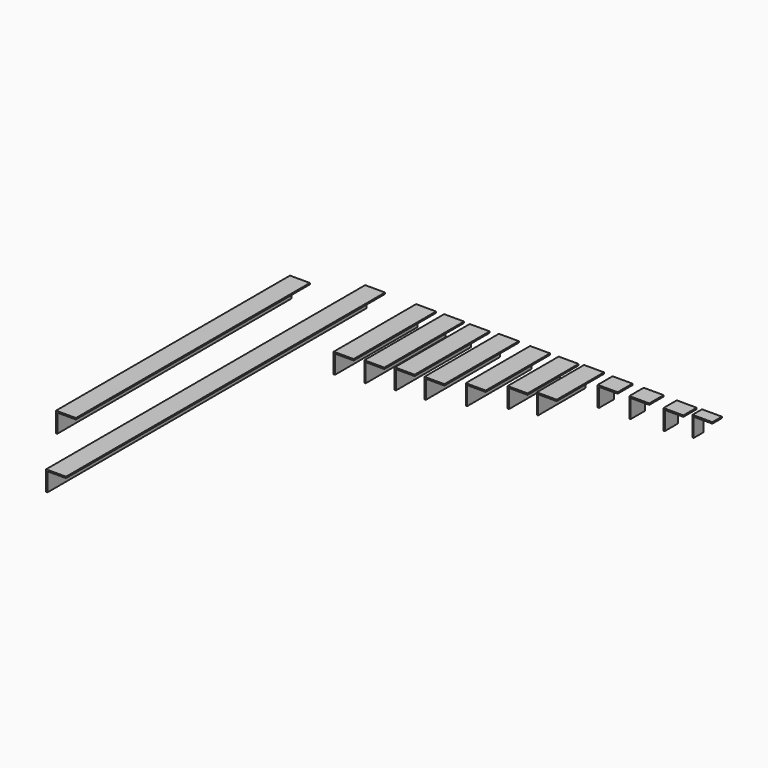
from build123d import *

# Parameters (mm, degrees)
F1_DEPTH  = 155
F2_DEPTH  = 150
F3_DEPTH  = 141
F4_DEPTH  = 140
F5_DEPTH  = 121
F6_DEPTH  = 96
F7_DEPTH  = 89
F8_DEPTH  = 28
F9_DEPTH  = 27
F10_DEPTH = 25
F11_DEPTH = 18
F12_DEPTH = 600
F13_DEPTH = 440


with BuildPart() as f1:
    # F0 (on Front) → F1 (new body)
    with BuildSketch(Plane.XZ):
        Polygon((0, 30), (0, 0), (2, 0), (2, 28), (30, 28), (30, 30), align=None)
    extrude(amount=F1_DEPTH)


with BuildPart() as f2:
    # F0 (on Front) → F2 (new body)
    with BuildSketch(Plane.XZ):
        Polygon((42.134417, 30.374652), (42.134417, 0.374652), (44.134417, 0.374652), (44.134417, 28.374652), (72.134417, 28.374652), (72.134417, 30.374652), align=None)
    extrude(amount=F2_DEPTH)


with BuildPart() as f3:
    # F0 (on Front) → F3 (new body)
    with BuildSketch(Plane.XZ):
        Polygon((80.618622, 29.845484), (80.618622, -0.154516), (82.618622, -0.154516), (82.618622, 27.845484), (110.618622, 27.845484), (110.618622, 29.845484), align=None)
    extrude(amount=F3_DEPTH)


with BuildPart() as f4:
    # F0 (on Front) → F4 (new body)
    with BuildSketch(Plane.XZ):
        Polygon((124.5095, 31.16221), (124.5095, 1.16221), (126.5095, 1.16221), (126.5095, 29.16221), (154.5095, 29.16221), (154.5095, 31.16221), align=None)
    extrude(amount=F4_DEPTH)


with BuildPart() as f5:
    # F0 (on Front) → F5 (new body)
    with BuildSketch(Plane.XZ):
        Polygon((171.47273, 30.284392), (171.47273, 0.284392), (173.47273, 0.284392), (173.47273, 28.284392), (201.47273, 28.284392), (201.47273, 30.284392), align=None)
    extrude(amount=F5_DEPTH)


with BuildPart() as f6:
    # F0 (on Front) → F6 (new body)
    with BuildSketch(Plane.XZ):
        Polygon((214.485781, 30.284392), (214.485781, 0.284392), (216.485781, 0.284392), (216.485781, 28.284392), (244.485781, 28.284392), (244.485781, 30.284392), align=None)
    extrude(amount=F6_DEPTH)


with BuildPart() as f7:
    # F0 (on Front) → F7 (new body)
    with BuildSketch(Plane.XZ):
        Polygon((252.679737, 31.538459), (252.679737, 1.538459), (254.679737, 1.538459), (254.679737, 29.538459), (282.679737, 29.538459), (282.679737, 31.538459), align=None)
    extrude(amount=F7_DEPTH)


with BuildPart() as f8:
    # F0 (on Front) → F8 (new body)
    with BuildSketch(Plane.XZ):
        Polygon((295.54102, 30.553142), (295.54102, 0.553142), (297.54102, 0.553142), (297.54102, 28.553142), (325.54102, 28.553142), (325.54102, 30.553142), align=None)
    extrude(amount=F8_DEPTH)


with BuildPart() as f9:
    # F0 (on Front) → F9 (new body)
    with BuildSketch(Plane.XZ):
        Polygon((342.343571, 30.553142), (342.343571, 0.553142), (344.343571, 0.553142), (344.343571, 28.553142), (372.343571, 28.553142), (372.343571, 30.553142), align=None)
    extrude(amount=F9_DEPTH)


with BuildPart() as f10:
    # F0 (on Front) → F10 (new body)
    with BuildSketch(Plane.XZ):
        Polygon((392.102064, 30.060483), (392.102064, 0.060483), (394.102064, 0.060483), (394.102064, 28.060483), (422.102064, 28.060483), (422.102064, 30.060483), align=None)
    extrude(amount=F10_DEPTH)


with BuildPart() as f11:
    # F0 (on Front) → F11 (new body)
    with BuildSketch(Plane.XZ):
        Polygon((430.036785, 30.553142), (430.036785, 0.553142), (432.036785, 0.553142), (432.036785, 28.553142), (460.036785, 28.553142), (460.036785, 30.553142), align=None)
    extrude(amount=F11_DEPTH)


with BuildPart() as f12:
    # F0 (on Front) → F12 (new body)
    with BuildSketch(Plane.XZ):
        Polygon((-76.667635, 30.182902), (-76.667635, 0.182902), (-74.667635, 0.182902), (-74.667635, 28.182902), (-46.667635, 28.182902), (-46.667635, 30.182902), align=None)
    extrude(amount=F12_DEPTH)


with BuildPart() as f13:
    # F0 (on Front) → F13 (new body)
    with BuildSketch(Plane.XZ):
        Polygon((-189.798532, 6.045131), (-189.798532, -23.954869), (-187.798532, -23.954869), (-187.798532, 4.045131), (-159.798532, 4.045131), (-159.798532, 6.045131), align=None)
    extrude(amount=F13_DEPTH)


solid = Compound([f1.part, f2.part, f3.part, f4.part, f5.part, f6.part, f7.part, f8.part, f9.part, f10.part, f11.part, f12.part, f13.part])
